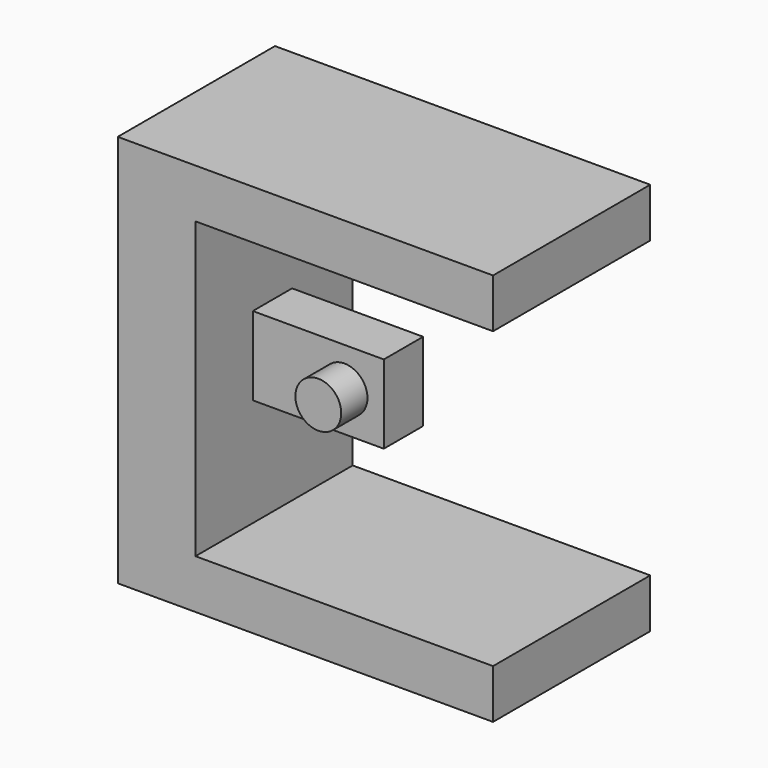
from build123d import *

# Parameters (mm, degrees)
F1_DEPTH = 15
F2_W     = 7.5
F2_H     = 12
F3_DEPTH = 20
F4_R     = 3.5
F5_DEPTH = 5


with BuildPart() as f1:
    # F0 (on Front) → F1 (new body, symmetric)
    with BuildSketch(Plane.XZ):
        Polygon((0, 42.711864), (0, 0), (0, -17.288136), (57.288132, -17.288136), (57.288132, -9.788136), (11.864405, -9.788136), (11.864405, 35.211864), (57.288132, 35.211864), (57.288132, 42.711864), align=None)
    extrude(amount=F1_DEPTH, both=True)

    # F2 (on face) → F3 (join)
    with BuildSketch(Plane.YZ.offset(11.864405)):
        with Locations((-0.309874, 12.711864)):
            Rectangle(F2_W, F2_H)
    extrude(amount=F3_DEPTH)

    # F4 (on face) → F5 (join)
    with BuildSketch(Plane.XZ.offset(4.059874)):
        with Locations((25.864405, 12.711864)):
            Circle(F4_R)
    extrude(amount=F5_DEPTH)


solid = f1.part
